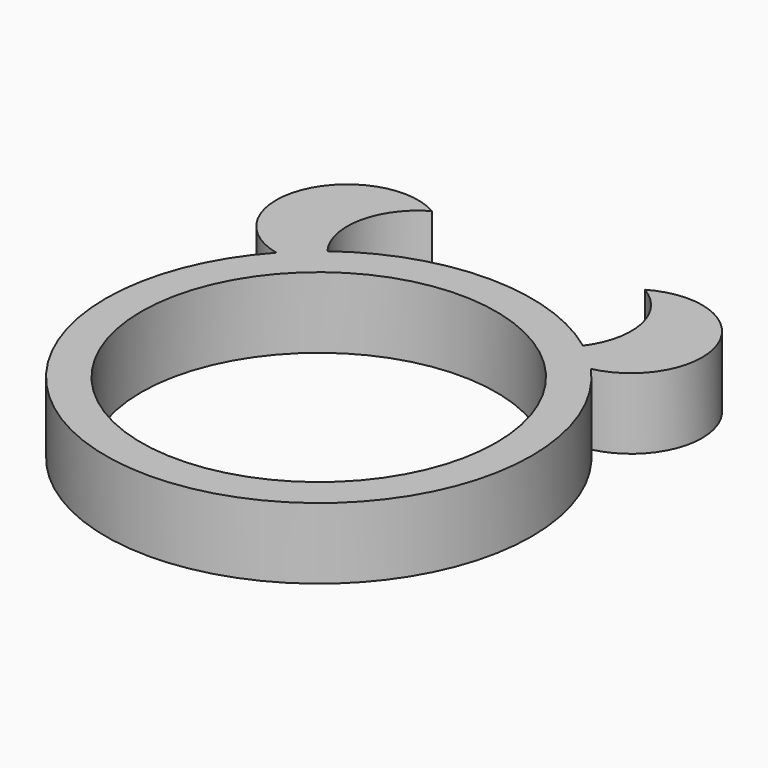
from build123d import *

# Parameters (mm, degrees)
CYLINDER003_R          = 1
CYLINDER003_DEPTH      = 1
CYLINDER002_R          = 1
CYLINDER002_DEPTH      = 1
CYLINDER005_R          = 1
CYLINDER005_DEPTH      = 1
CYLINDER004_R          = 1
CYLINDER004_DEPTH      = 1
CUT002_PLACEMENT_ANGLE = 180
CYLINDER001_R          = 2.5
CYLINDER001_DEPTH      = 5
CYLINDER_R             = 3
CYLINDER_DEPTH         = 1


with BuildPart() as cilindro003:
    # Cylinder003 → Cylinder003 (new body)
    with BuildSketch(Plane(origin=(-7, 0, 0), x_dir=(1, 0, 0), z_dir=(0, 0, 1))):
        Circle(CYLINDER003_R)
    extrude(amount=CYLINDER003_DEPTH)


with BuildPart() as cut001:
    # Cylinder002 → Cylinder002 (new body)
    with BuildSketch(Plane(origin=(-8, 0, 0), x_dir=(1, 0, 0), z_dir=(0, 0, 1))):
        Circle(CYLINDER002_R)
    extrude(amount=CYLINDER002_DEPTH)

    # Cut001: cut Cilindro003
    add(cilindro003.part, mode=Mode.SUBTRACT)


with BuildPart() as cut001_1:
    # Cut001 placement: moved
    add(cut001.part.moved(Location((6, 3, 0))))


with BuildPart() as cilindro005:
    # Cylinder005 → Cylinder005 (new body)
    with BuildSketch(Plane(origin=(-7, 0, 0), x_dir=(1, 0, 0), z_dir=(0, 0, 1))):
        Circle(CYLINDER005_R)
    extrude(amount=CYLINDER005_DEPTH)


with BuildPart() as cut002:
    # Cylinder004 → Cylinder004 (new body)
    with BuildSketch(Plane(origin=(-8, 0, 0), x_dir=(1, 0, 0), z_dir=(0, 0, 1))):
        Circle(CYLINDER004_R)
    extrude(amount=CYLINDER004_DEPTH)

    # Cut002: cut Cilindro005
    add(cilindro005.part, mode=Mode.SUBTRACT)


with BuildPart() as cut002_1:
    # Cut002 placement: moved
    add(cut002.part.moved(Location((-6, 3, 0))).rotate(Axis((-6, 3, 0), (0, 0, 1)), CUT002_PLACEMENT_ANGLE))


with BuildPart() as cilindro001:
    # Cylinder001 → Cylinder001 (new body)
    with BuildSketch(Plane.XY.offset(-2)):
        Circle(CYLINDER001_R)
    extrude(amount=CYLINDER001_DEPTH)


with BuildPart() as fusion:
    # Cylinder → Cylinder (new body)
    with BuildSketch(Plane.XY):
        Circle(CYLINDER_R)
    extrude(amount=CYLINDER_DEPTH)

    # Cut: cut Cilindro001
    add(cilindro001.part, mode=Mode.SUBTRACT)

    # Fusion: union Cut001, Cut002
    add(cut001_1.part)
    add(cut002_1.part)


solid = fusion.part
